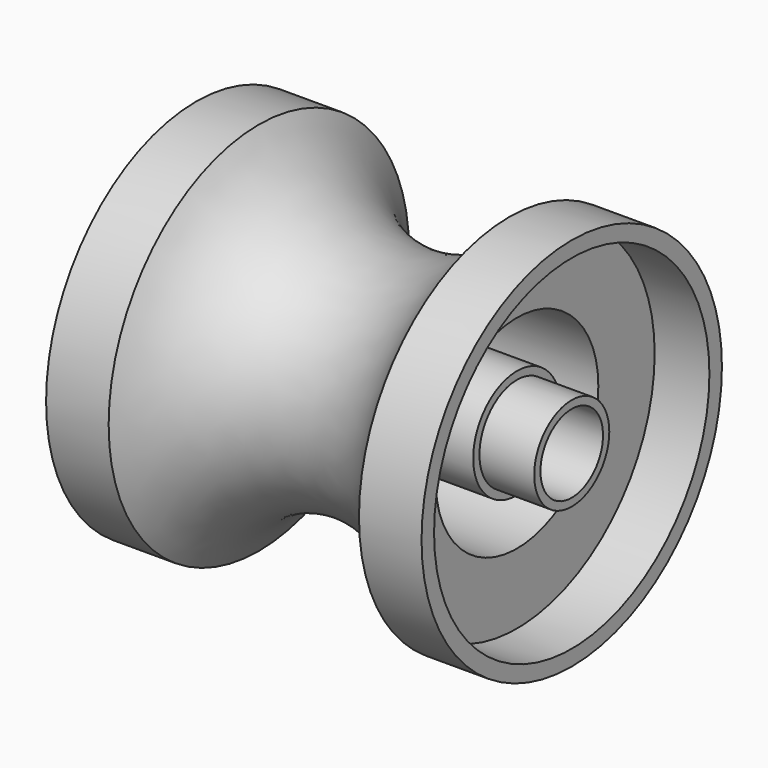
from build123d import *

# Parameters (mm, degrees)
F2_R      = 1.25
F3_DEPTH  = 12.001
F4_R      = 5.5
F4_R_2    = 3.25
F5_DEPTH  = 1.75
F6_R      = 5.5
F6_R_2    = 3.25
F7_DEPTH  = 1.75
F4_R_3    = 1.75
F8_DEPTH  = 12.001
F4_R_4    = 1.5
F9_DEPTH  = 1.75
F10_R     = 1.75
F10_R_2   = 1.5
F11_DEPTH = 1.75


with BuildPart() as f1:
    # F0 (on Front) → F1 (revolve)
    with BuildSketch(Plane.XZ):
        with BuildLine():
            Line((-5.828382, 6), (-5.828382, 0))
            Line((-5.828382, 0), (6.171618, 0))
            Line((6.171618, 0), (6.171618, 6))
            Line((6.171618, 6), (4.171618, 6))
            ThreePointArc((4.171618, 6), (0.171618, 3.561553), (-3.828382, 6))
            Line((-3.828382, 6), (-5.828382, 6))
        make_face()
    revolve(axis=Axis((0.171618, 0, 0), (1, 0, 0)))

    # F2 (on face) → F3 (cut, through all)
    with BuildSketch(Plane(origin=(-5.828382, 0, 0), x_dir=(0, -1, 0), z_dir=(-1, 0, 0))):
        Circle(F2_R)
    extrude(amount=-F3_DEPTH, mode=Mode.SUBTRACT)

    # F4 (on face) → F5 (cut)
    with BuildSketch(Plane.YZ.offset(6.171618)):
        Circle(F4_R)
        Circle(F4_R_2, mode=Mode.SUBTRACT)
    extrude(amount=-F5_DEPTH, mode=Mode.SUBTRACT)

    # F6 (on face) → F7 (cut)
    with BuildSketch(Plane(origin=(-5.828382, 0, 0), x_dir=(0, -1, 0), z_dir=(-1, 0, 0))):
        Circle(F6_R)
        Circle(F6_R_2, mode=Mode.SUBTRACT)
    extrude(amount=-F7_DEPTH, mode=Mode.SUBTRACT)

    # F4 (on face) → F8 (cut, through all)
    with BuildSketch(Plane.YZ.offset(6.171618)):
        Circle(F4_R_2)
        Circle(F4_R_3, mode=Mode.SUBTRACT)
    extrude(amount=-F8_DEPTH, mode=Mode.SUBTRACT)

    # F4 (on face) → F9 (cut)
    with BuildSketch(Plane.YZ.offset(6.171618)):
        Circle(F4_R_3)
        Circle(F4_R_4, mode=Mode.SUBTRACT)
    extrude(amount=-F9_DEPTH, mode=Mode.SUBTRACT)

    # F10 (on face) → F11 (cut)
    with BuildSketch(Plane(origin=(-5.828382, 0, 0), x_dir=(0, -1, 0), z_dir=(-1, 0, 0))):
        Circle(F10_R)
        Circle(F10_R_2, mode=Mode.SUBTRACT)
    extrude(amount=-F11_DEPTH, mode=Mode.SUBTRACT)


solid = f1.part
